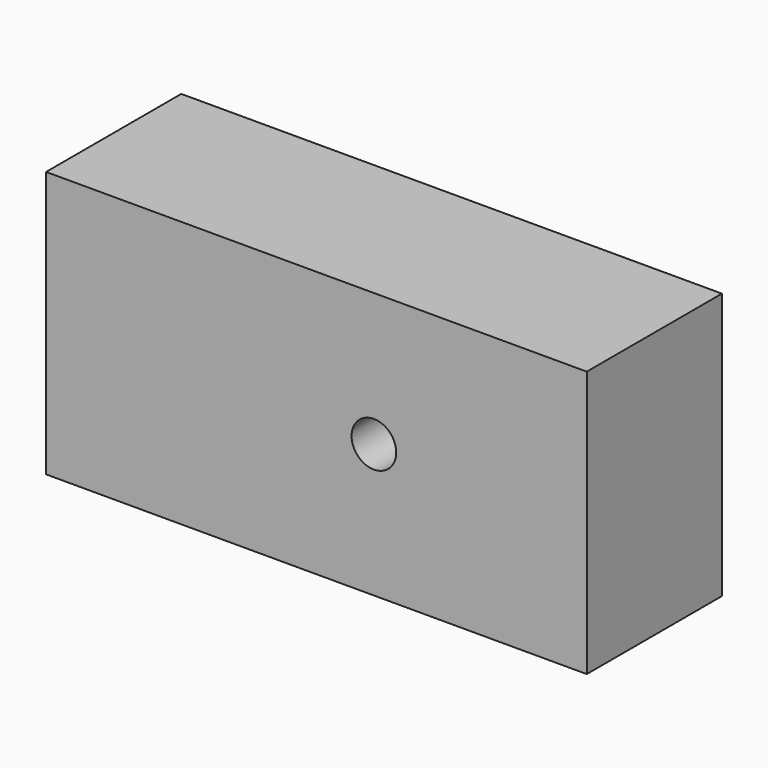
from build123d import *

# Parameters (mm, degrees)
F0_W     = 50.8
F0_H     = 25.019
F1_DEPTH = 15.875
F3_D     = 4.191


with BuildPart() as f1:
    # F0 (on Front) → F1 (new body)
    with BuildSketch(Plane.XZ):
        Rectangle(F0_W, F0_H)
    extrude(amount=F1_DEPTH)

    # F3 (through all)
    with Locations(Plane.XZ.offset(15.875)):
        with Locations((5.4, 0)):
            Hole(F3_D / 2)


solid = f1.part
